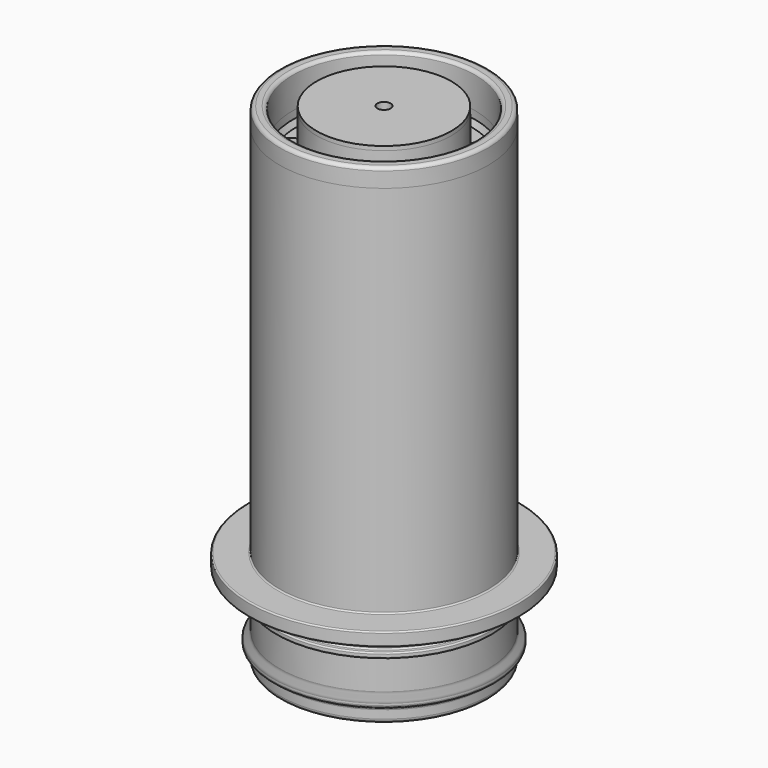
from build123d import *

# Parameters (mm, degrees)
F0_W     = 4.592721
F0_H     = 4.41
F2_R     = 1.5
F3_DEPTH = 25


with BuildPart() as f1:
    # F0 (on Front) → F1 (revolve)
    with BuildSketch(Plane.XZ):
        with BuildLine():
            Line((14.175, 23.625), (6.088194, 23.625))
            Line((6.088194, 23.625), (5.642721, 23.31))
            Line((5.642721, 23.31), (5.642721, 18.9))
            Line((5.642721, 18.9), (14.175, 18.9))
            Line((14.175, 18.9), (14.175, -42))
            Line((14.175, -42), (15.5925, -42))
            ThreePointArc((15.5925, -42), (16.0379772721, -41.8154772721), (16.2225, -41.37))
            Line((16.2225, -41.37), (16.2225, -40.090197))
            Line((16.2225, -40.090197), (16.222899, -40.071822))
            Line((16.222899, -40.071822), (16.224096, -40.05351))
            Line((16.224096, -40.05351), (16.226091, -40.035303))
            Line((16.226091, -40.035303), (16.228884, -40.01718))
            Line((16.228884, -40.01718), (16.232454, -39.999225))
            Line((16.232454, -39.999225), (16.236822, -39.981417))
            Line((16.236822, -39.981417), (16.241946, -39.963777))
            Line((16.241946, -39.963777), (16.247847, -39.946389))
            Line((16.247847, -39.946389), (16.254504, -39.929274))
            Line((16.254504, -39.929274), (16.261896, -39.912495))
            Line((16.261896, -39.912495), (16.270002, -39.896052))
            Line((16.270002, -39.896052), (16.278801, -39.879987))
            Line((16.278801, -39.879987), (16.288314, -39.864321))
            Line((16.288314, -39.864321), (16.298499, -39.849075))
            Line((16.298499, -39.849075), (16.309377, -39.83427))
            Line((16.309377, -39.83427), (16.320864, -39.819948))
            Line((16.320864, -39.819948), (16.33296, -39.806151))
            Line((16.33296, -39.806151), (16.345623, -39.792921))
            Line((16.345623, -39.792921), (16.358853, -39.780279))
            Line((16.358853, -39.780279), (16.372608, -39.768204))
            Line((16.372608, -39.768204), (16.386867, -39.756759))
            Line((16.386867, -39.756759), (16.401651, -39.745923))
            Line((16.401651, -39.745923), (16.416876, -39.735738))
            Line((16.416876, -39.735738), (16.432584, -39.726204))
            Line((16.432584, -39.726204), (16.456209, -39.712575))
            Line((16.456209, -39.712575), (16.479834, -39.698925))
            Line((16.479834, -39.698925), (16.503459, -39.685296))
            Line((16.503459, -39.685296), (16.527063, -39.671646))
            Line((16.527063, -39.671646), (16.550688, -39.658017))
            Line((16.550688, -39.658017), (16.574313, -39.644367))
            Line((16.574313, -39.644367), (16.597938, -39.630738))
            Line((16.597938, -39.630738), (16.621563, -39.617109))
            Line((16.621563, -39.617109), (16.645188, -39.603459))
            Line((16.645188, -39.603459), (16.668792, -39.58983))
            Line((16.668792, -39.58983), (16.692417, -39.57618))
            Line((16.692417, -39.57618), (16.716042, -39.562551))
            Line((16.716042, -39.562551), (16.739667, -39.548901))
            Line((16.739667, -39.548901), (16.763292, -39.535272))
            Line((16.763292, -39.535272), (16.786896, -39.521643))
            Line((16.786896, -39.521643), (16.810521, -39.507993))
            Line((16.810521, -39.507993), (16.834146, -39.494364))
            Line((16.834146, -39.494364), (16.857771, -39.480714))
            Line((16.857771, -39.480714), (16.881396, -39.467085))
            Line((16.881396, -39.467085), (16.905021, -39.453456))
            Line((16.905021, -39.453456), (16.928646, -39.439806))
            Line((16.928646, -39.439806), (16.95225, -39.426177))
            Line((16.95225, -39.426177), (16.975875, -39.412527))
            Line((16.975875, -39.412527), (16.9995, -39.398898))
            Line((16.9995, -39.398898), (17.015166, -39.389385))
            Line((17.015166, -39.389385), (17.030412, -39.3792))
            Line((17.030412, -39.3792), (17.045217, -39.368343))
            Line((17.045217, -39.368343), (17.059518, -39.356856))
            Line((17.059518, -39.356856), (17.073315, -39.34476))
            Line((17.073315, -39.34476), (17.086545, -39.332097))
            Line((17.086545, -39.332097), (17.099208, -39.318867))
            Line((17.099208, -39.318867), (17.111283, -39.305091))
            Line((17.111283, -39.305091), (17.122749, -39.29079))
            Line((17.122749, -39.29079), (17.133585, -39.276006))
            Line((17.133585, -39.276006), (17.143791, -39.260739))
            Line((17.143791, -39.260739), (17.153304, -39.245052))
            Line((17.153304, -39.245052), (17.162103, -39.228987))
            Line((17.162103, -39.228987), (17.170188, -39.212565))
            Line((17.170188, -39.212565), (17.177559, -39.195828))
            Line((17.177559, -39.195828), (17.184174, -39.178776))
            Line((17.184174, -39.178776), (17.190054, -39.161451))
            Line((17.190054, -39.161451), (17.195178, -39.143874))
            Line((17.195178, -39.143874), (17.199546, -39.126066))
            Line((17.199546, -39.126066), (17.203137, -39.108048))
            Line((17.203137, -39.108048), (17.205909, -39.089925))
            Line((17.205909, -39.089925), (17.207904, -39.071718))
            Line((17.207904, -39.071718), (17.209101, -39.053448))
            Line((17.209101, -39.053448), (17.2095, -39.035157))
            Line((17.2095, -39.035157), (17.2095, -38.701131))
            Line((17.2095, -38.701131), (17.209101, -38.682819))
            Line((17.209101, -38.682819), (17.207904, -38.664528))
            Line((17.207904, -38.664528), (17.205909, -38.646279))
            Line((17.205909, -38.646279), (17.203116, -38.628135))
            Line((17.203116, -38.628135), (17.199525, -38.610159))
            Line((17.199525, -38.610159), (17.195178, -38.592351))
            Line((17.195178, -38.592351), (17.190033, -38.574774))
            Line((17.190033, -38.574774), (17.184153, -38.557428))
            Line((17.184153, -38.557428), (17.177517, -38.540355))
            Line((17.177517, -38.540355), (17.170125, -38.523576))
            Line((17.170125, -38.523576), (17.161998, -38.507091))
            Line((17.161998, -38.507091), (17.153157, -38.491026))
            Line((17.153157, -38.491026), (17.143644, -38.47536))
            Line((17.143644, -38.47536), (17.13348, -38.460156))
            Line((17.13348, -38.460156), (17.122665, -38.445393))
            Line((17.122665, -38.445393), (17.11122, -38.431134))
            Line((17.11122, -38.431134), (17.099145, -38.417379))
            Line((17.099145, -38.417379), (17.086482, -38.404149))
            Line((17.086482, -38.404149), (17.073231, -38.391465))
            Line((17.073231, -38.391465), (17.059434, -38.379369))
            Line((17.059434, -38.379369), (17.045133, -38.367882))
            Line((17.045133, -38.367882), (17.030349, -38.357067))
            Line((17.030349, -38.357067), (17.015145, -38.346903))
            Line((17.015145, -38.346903), (16.9995, -38.337411))
            Line((16.9995, -38.337411), (16.975875, -38.323761))
            Line((16.975875, -38.323761), (16.95225, -38.310132))
            Line((16.95225, -38.310132), (16.928646, -38.296503))
            Line((16.928646, -38.296503), (16.905021, -38.282853))
            Line((16.905021, -38.282853), (16.881396, -38.269224))
            Line((16.881396, -38.269224), (16.857771, -38.255574))
            Line((16.857771, -38.255574), (16.834146, -38.241945))
            Line((16.834146, -38.241945), (16.810521, -38.228295))
            Line((16.810521, -38.228295), (16.786896, -38.214666))
            Line((16.786896, -38.214666), (16.763292, -38.201037))
            Line((16.763292, -38.201037), (16.739667, -38.187387))
            Line((16.739667, -38.187387), (16.716042, -38.173758))
            Line((16.716042, -38.173758), (16.692417, -38.160108))
            Line((16.692417, -38.160108), (16.668792, -38.146479))
            Line((16.668792, -38.146479), (16.645188, -38.13285))
            Line((16.645188, -38.13285), (16.621563, -38.1192))
            Line((16.621563, -38.1192), (16.597938, -38.105571))
            Line((16.597938, -38.105571), (16.574313, -38.091921))
            Line((16.574313, -38.091921), (16.550688, -38.078292))
            Line((16.550688, -38.078292), (16.527063, -38.064642))
            Line((16.527063, -38.064642), (16.503459, -38.051013))
            Line((16.503459, -38.051013), (16.479834, -38.037384))
            Line((16.479834, -38.037384), (16.456209, -38.023734))
            Line((16.456209, -38.023734), (16.432584, -38.010105))
            Line((16.432584, -38.010105), (16.416876, -38.000571))
            Line((16.416876, -38.000571), (16.40163, -37.990386))
            Line((16.40163, -37.990386), (16.386846, -37.979529))
            Line((16.386846, -37.979529), (16.372566, -37.968063))
            Line((16.372566, -37.968063), (16.35879, -37.955988))
            Line((16.35879, -37.955988), (16.345539, -37.943304))
            Line((16.345539, -37.943304), (16.332855, -37.930032))
            Line((16.332855, -37.930032), (16.320738, -37.916214))
            Line((16.320738, -37.916214), (16.309272, -37.901892))
            Line((16.309272, -37.901892), (16.298436, -37.887108))
            Line((16.298436, -37.887108), (16.288251, -37.871862))
            Line((16.288251, -37.871862), (16.278759, -37.856196))
            Line((16.278759, -37.856196), (16.269939, -37.840131))
            Line((16.269939, -37.840131), (16.261833, -37.823688))
            Line((16.261833, -37.823688), (16.254441, -37.806867))
            Line((16.254441, -37.806867), (16.247784, -37.789752))
            Line((16.247784, -37.789752), (16.241904, -37.772385))
            Line((16.241904, -37.772385), (16.23678, -37.754787))
            Line((16.23678, -37.754787), (16.232433, -37.737021))
            Line((16.232433, -37.737021), (16.228884, -37.719066))
            Line((16.228884, -37.719066), (16.226091, -37.700985))
            Line((16.226091, -37.700985), (16.224096, -37.682778))
            Line((16.224096, -37.682778), (16.222899, -37.664466))
            Line((16.222899, -37.664466), (16.2225, -37.646112))
            Line((16.2225, -37.646112), (16.2225, -33.033))
            ThreePointArc((16.2225, -33.033), (16.284007576, -32.884507576), (16.4325, -32.823))
            Line((16.4325, -32.823), (16.59, -32.823))
            ThreePointArc((16.59, -32.823), (16.738492424, -32.761492424), (16.8, -32.613))
            Line((16.8, -32.613), (16.8, -32.193))
            ThreePointArc((16.8, -32.193), (16.738492424, -32.044507576), (16.59, -31.983))
            Line((16.59, -31.983), (16.1385, -31.983))
            ThreePointArc((16.1385, -31.983), (15.990007576, -31.921492424), (15.9285, -31.773))
            Line((15.9285, -31.773), (15.9285, -29.253))
            ThreePointArc((15.9285, -29.253), (15.990007576, -29.104507576), (16.1385, -29.043))
            Line((16.1385, -29.043), (20.79, -29.043))
            ThreePointArc((20.79, -29.043), (20.938492424, -28.981492424), (21, -28.833))
            Line((21, -28.833), (21, -27.153))
            ThreePointArc((21, -27.153), (20.938492424, -27.004507576), (20.79, -26.943))
            Line((20.79, -26.943), (16.4325, -26.943))
            ThreePointArc((16.4325, -26.943), (16.284007576, -26.881492424), (16.2225, -26.733))
            Line((16.2225, -26.733), (16.2225, 31.2810494958))
            Line((16.2225, 31.2810494958), (16.20177797, 33.6552509134))
            ThreePointArc((16.20177797, 33.6552509134), (15.9771699394, 33.9939278883), (15.5925, 34.125))
            Line((15.5925, 34.125), (14.805, 34.125))
            ThreePointArc((14.805, 34.125), (14.4486924823, 34.0145622704), (14.2173049433, 33.7219681042))
            Line((14.2173049433, 33.7219681042), (14.175, 28.8740958577))
            Line((14.175, 28.8740958577), (14.175, 23.625))
        make_face()
        with Locations((3.3463605, 21.105)):
            Rectangle(F0_W, F0_H)
        Polygon((10.4819973794, 34.0927600182), (1.05, 34.125), (1.05, 33.495), (10.4847822576, 33.4544303617), align=None)
        Polygon((10.4847822576, 33.4544303617), (1.05, 33.495), (1.05, 27.666051), (1.05, 26.775), (1.05, 23.625), (6.088194, 23.625), (14.175, 23.625), (14.175, 28.8740958577), (14.164458, 27.666051), (13.65, 26.775), (10.513923, 26.775), align=None)
        Polygon((10.4847822576, 33.4544303617), (1.05, 33.495), (1.05, 27.666051), (1.05, 26.775), (1.05, 23.625), (6.088194, 23.625), (14.175, 23.625), (14.175, 28.8740958577), (14.164458, 27.666051), (13.65, 26.775), (10.513923, 26.775), align=None)
    revolve(axis=Axis((0, 0, -34.8562706094), (0, 0, -1)))

    # F2 (on face) → F3 (cut)
    with BuildSketch(Plane.XY.offset(26.775)):
        with Locations((-7.0828122901, 9.7486547822)):
            Circle(F2_R)
        with Locations((0, 12.05)):
            Circle(F2_R)
        with Locations((7.0828122901, 9.7486547822)):
            Circle(F2_R)
        with Locations((11.4602310214, 3.7236547822)):
            Circle(F2_R)
        with Locations((11.4602310214, -3.7236547822)):
            Circle(F2_R)
        with Locations((7.0828122901, -9.7486547822)):
            Circle(F2_R)
        with Locations((0, -12.05)):
            Circle(F2_R)
        with Locations((-7.0828122901, -9.7486547822)):
            Circle(F2_R)
        with Locations((-11.4602310214, -3.7236547822)):
            Circle(F2_R)
        with Locations((-11.4602310214, 3.7236547822)):
            Circle(F2_R)
    extrude(amount=-F3_DEPTH, mode=Mode.SUBTRACT)


solid = f1.part
